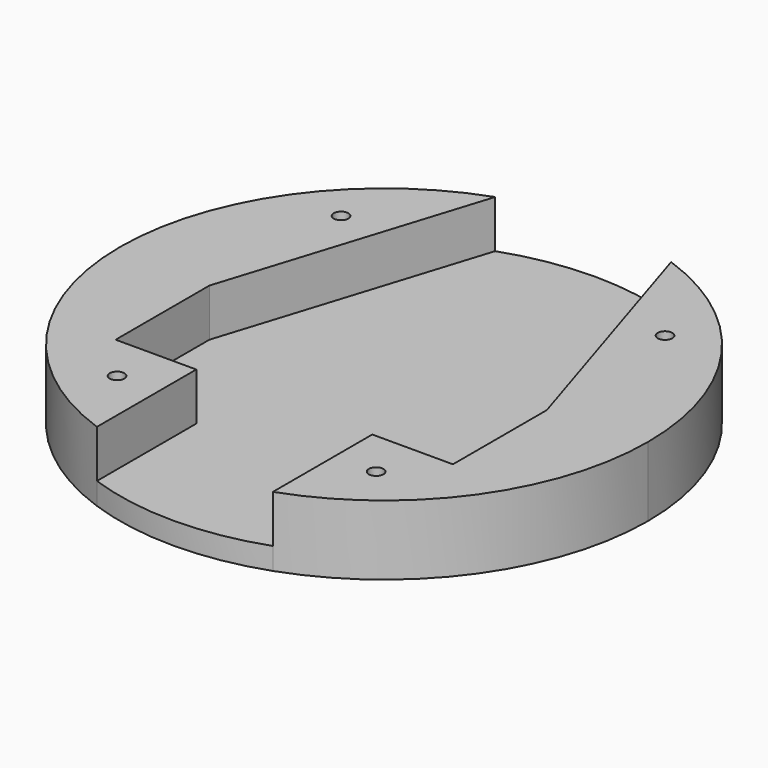
from build123d import *

# Parameters (mm, degrees)
F0_R     = 1
F1_DEPTH = 3
F2_DEPTH = 9.5


with BuildPart() as f1:
    # F0 (on Top) → F1 (new body)
    with BuildSketch(Plane.XY):
        with BuildLine():
            Line((-23, -1), (-12, 33.941125))
            ThreePointArc((-12, 33.941125), (-36, 0), (-12, -33.941125))
            Line((-12, -33.941125), (-12, -17))
            Line((-12, -17), (-23, -17))
            Line((-23, -17), (-23, -1))
        make_face()
        with Locations((-17.667536, -23.424493)):
            Circle(F0_R, mode=Mode.SUBTRACT)
        with Locations((-22.090653, 20.292368)):
            Circle(F0_R, mode=Mode.SUBTRACT)
        with BuildLine():
            Line((23, -1), (12, 33.941125))
            ThreePointArc((12, 33.941125), (0, 36), (-12, 33.941125))
            Line((-12, 33.941125), (-23, -1))
            Line((-23, -1), (-23, -17))
            Line((-23, -17), (-12, -17))
            Line((-12, -17), (-12, -33.941125))
            ThreePointArc((-12, -33.941125), (0, -36), (12, -33.941125))
            Line((12, -33.941125), (12, -17))
            Line((12, -17), (23, -17))
            Line((23, -17), (23, -1))
        make_face()
        with BuildLine():
            ThreePointArc((12, -33.941125), (29.393877, -20.78461), (36, 0))
            ThreePointArc((36, 0), (29.393877, 20.78461), (12, 33.941125))
            Line((12, 33.941125), (23, -1))
            Line((23, -1), (23, -17))
            Line((23, -17), (12, -17))
            Line((12, -17), (12, -33.941125))
        make_face()
        with Locations((17.667536, -23.424493)):
            Circle(F0_R, mode=Mode.SUBTRACT)
        with Locations((22.090653, 20.292368)):
            Circle(F0_R, mode=Mode.SUBTRACT)
    extrude(amount=F1_DEPTH)

    # F0 (on Top) → F2 (join)
    with BuildSketch(Plane.XY):
        with BuildLine():
            Line((-23, -1), (-12, 33.941125))
            ThreePointArc((-12, 33.941125), (-36, 0), (-12, -33.941125))
            Line((-12, -33.941125), (-12, -17))
            Line((-12, -17), (-23, -17))
            Line((-23, -17), (-23, -1))
        make_face()
        with Locations((-17.667536, -23.424493)):
            Circle(F0_R, mode=Mode.SUBTRACT)
        with Locations((-22.090653, 20.292368)):
            Circle(F0_R, mode=Mode.SUBTRACT)
        with BuildLine():
            ThreePointArc((12, -33.941125), (29.393877, -20.78461), (36, 0))
            ThreePointArc((36, 0), (29.393877, 20.78461), (12, 33.941125))
            Line((12, 33.941125), (23, -1))
            Line((23, -1), (23, -17))
            Line((23, -17), (12, -17))
            Line((12, -17), (12, -33.941125))
        make_face()
        with Locations((17.667536, -23.424493)):
            Circle(F0_R, mode=Mode.SUBTRACT)
        with Locations((22.090653, 20.292368)):
            Circle(F0_R, mode=Mode.SUBTRACT)
    extrude(amount=F2_DEPTH)


solid = f1.part
